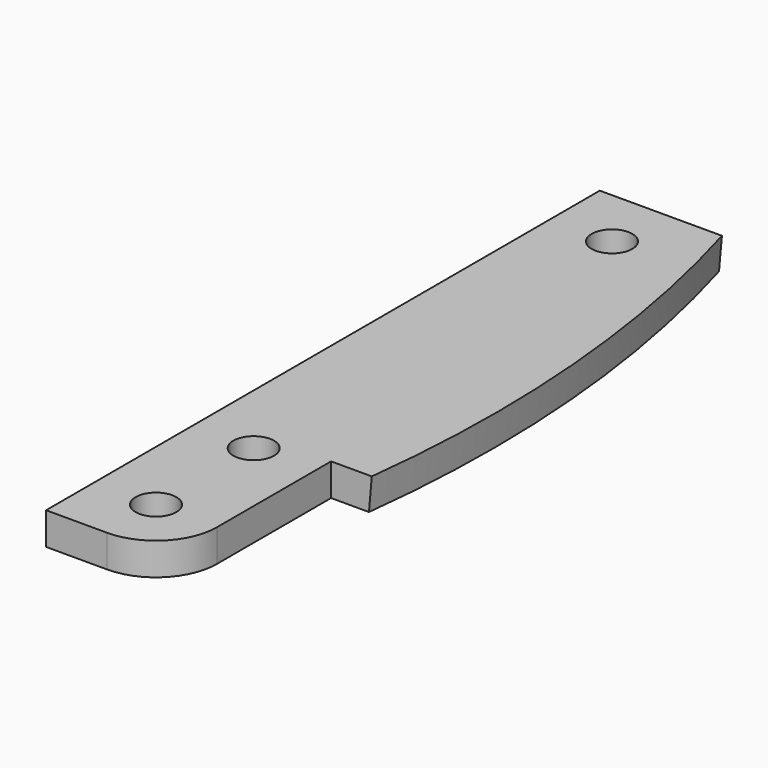
from build123d import *

# Parameters (mm, degrees)
F0_R     = 5
F1_DEPTH = 7.9375


with BuildPart() as f1:
    # F0 (on Top) → F1 (new body)
    with BuildSketch(Plane.XY):
        with BuildLine():
            Line((30, 85), (0, 85))
            Line((0, 85), (0, -85))
            Line((0, -85), (15, -85))
            ThreePointArc((15, -85), (25.6066017178, -80.6066017178), (30, -70))
            Line((30, -70), (30, -35))
            Line((30, -35), (40, -35))
            ThreePointArc((40, -35), (41.0826759443, 25.506889662), (30, 85))
        make_face()
        with Locations((15, -70)):
            Circle(F0_R, mode=Mode.SUBTRACT)
        with Locations((15, -40)):
            Circle(F0_R, mode=Mode.SUBTRACT)
        with Locations((15, 70)):
            Circle(F0_R, mode=Mode.SUBTRACT)
    extrude(amount=F1_DEPTH)

    # F4: sweep along a path in F3
    with BuildLine(Plane.XY.offset(7.9375)) as f4_path:
        ThreePointArc((40, -35), (41.0826759443, 25.506889662), (30, 85))
        ThreePointArc((30, 85), (29.688847741, 86.0540731869), (29.3738360192, 87.1069994078))
    # F2 (on face) → F4 (sweep, cut)
    with BuildSketch(Plane.XZ.offset(35)):
        Polygon((39.3055587333, 0), (40, 0), (40, 7.9375), align=None)
    sweep(path=f4_path.line, mode=Mode.SUBTRACT)


solid = f1.part
